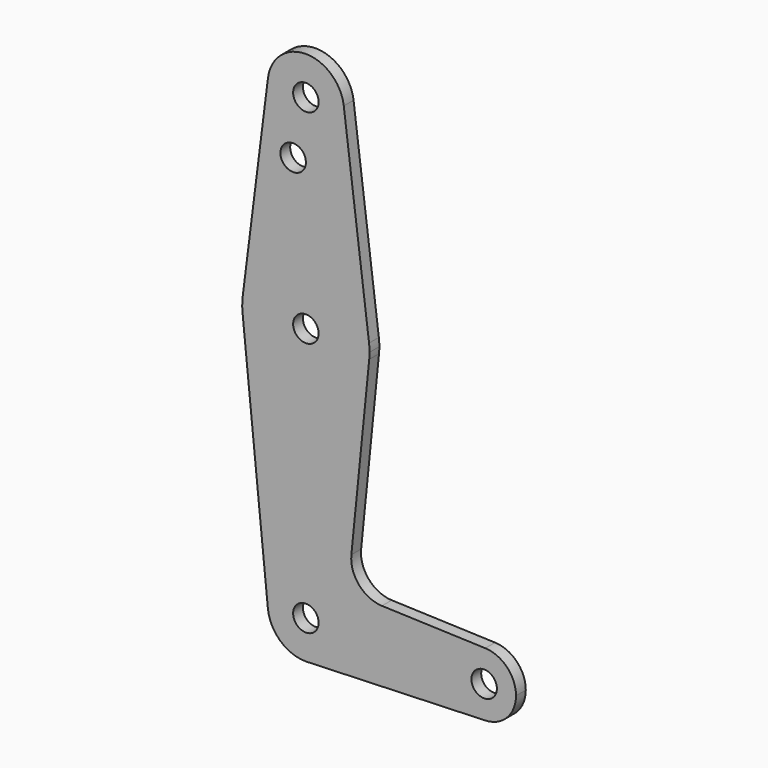
from build123d import *

# Parameters (mm, degrees)
F0_R     = 3.175
F1_DEPTH = 3.048


with BuildPart() as f1:
    # F0 (on Front) → F1 (new body)
    with BuildSketch(Plane.XZ):
        with BuildLine():
            ThreePointArc((0, -9.525), (0.3388863295, -9.5189695375), (0.6773435479, -9.500885786))
            Line((0.6773435479, -9.500885786), (0, -9.525))
        make_face()
        with BuildLine():
            ThreePointArc((44.7324052746, 7.9324746146), (36.5125, 0), (44.7324052746, -7.9324746146))
            ThreePointArc((44.7324052746, -7.9324746146), (50.1616327839, -5.5119104847), (52.3875, 0))
            ThreePointArc((52.3875, 0), (50.1616327839, 5.5119104847), (44.7324052746, 7.9324746146))
        make_face()
        with Locations((44.45, 0)):
            Circle(F0_R, mode=Mode.SUBTRACT)
        with BuildLine():
            ThreePointArc((9.4502929642, 115.490625), (0, 123.825), (-9.4502929642, 115.490625))
            ThreePointArc((-9.4502929642, 115.490625), (-0.596483242, 104.7936951058), (9.525, 114.3))
            ThreePointArc((9.525, 114.3), (9.5063048942, 114.896483242), (9.4502929642, 115.490625))
        make_face()
        with Locations((0, 114.3)):
            Circle(F0_R, mode=Mode.SUBTRACT)
        with BuildLine():
            ThreePointArc((-15.7504882737, 65.484375), (-15.8737438155, 63.6997054867), (-15.7954255641, 61.9125))
            ThreePointArc((-15.7954255641, 61.9125), (0, 47.625), (15.7954255641, 61.9125))
            ThreePointArc((15.7954255641, 61.9125), (15.8550939106, 62.7052534459), (15.875, 63.5))
            ThreePointArc((15.875, 63.5), (15.8438414904, 64.4941387366), (15.7504882737, 65.484375))
            ThreePointArc((15.7504882737, 65.484375), (0, 79.375), (-15.7504882737, 65.484375))
        make_face()
        with Locations((0, 63.5)):
            Circle(F0_R, mode=Mode.SUBTRACT)
        with BuildLine():
            Line((-9.4502929642, 115.490625), (-15.7504882737, 65.484375))
            ThreePointArc((-15.7504882737, 65.484375), (0, 79.375), (15.7504882737, 65.484375))
            Line((15.7504882737, 65.484375), (9.4502929642, 115.490625))
            ThreePointArc((9.4502929642, 115.490625), (9.5063048942, 114.896483242), (9.525, 114.3))
            ThreePointArc((9.525, 114.3), (-0.596483242, 104.7936951058), (-9.4502929642, 115.490625))
        make_face()
        with Locations((-3.175, 100.0252)):
            Circle(F0_R, mode=Mode.SUBTRACT)
        with BuildLine():
            ThreePointArc((0.6773435479, -9.500885786), (6.9705567315, -6.4912990883), (9.525, 0))
            ThreePointArc((9.525, 0), (6.9705567315, 6.4912990883), (0.6773435479, 9.500885786))
            Line((0.6773435479, 9.500885786), (0, 9.525))
            ThreePointArc((0, 9.525), (-7.063929059, 6.3895642457), (-9.4772553384, -0.9525))
            ThreePointArc((-9.4772553384, -0.9525), (-6.3895642457, -7.063929059), (0, -9.525))
            Line((0, -9.525), (0.6773435479, -9.500885786))
        make_face()
        Circle(F0_R, mode=Mode.SUBTRACT)
        with BuildLine():
            ThreePointArc((0.6773435479, 9.500885786), (6.9705567315, 6.4912990883), (9.525, 0))
            ThreePointArc((9.525, 0), (6.9705567315, -6.4912990883), (0.6773435479, -9.500885786))
            Line((0.6773435479, -9.500885786), (44.7324052746, -7.9324746146))
            ThreePointArc((44.7324052746, -7.9324746146), (36.5125, 0), (44.7324052746, 7.9324746146))
            Line((44.7324052746, 7.9324746146), (18.968327868, 8.8497055806))
            ThreePointArc((18.968327868, 8.8497055806), (13.2612039825, 11.5674628959), (11.3408358685, 17.5898921545))
            Line((11.3408358685, 17.5898921545), (15.7954255641, 61.9125))
            ThreePointArc((15.7954255641, 61.9125), (0, 47.625), (-15.7954255641, 61.9125))
            Line((-15.7954255641, 61.9125), (-9.4772553384, -0.9525))
            ThreePointArc((-9.4772553384, -0.9525), (-7.063929059, 6.3895642457), (0, 9.525))
            ThreePointArc((0, 9.525), (0.3388863295, 9.5189695375), (0.6773435479, 9.500885786))
        make_face()
    extrude(amount=F1_DEPTH)


solid = f1.part
